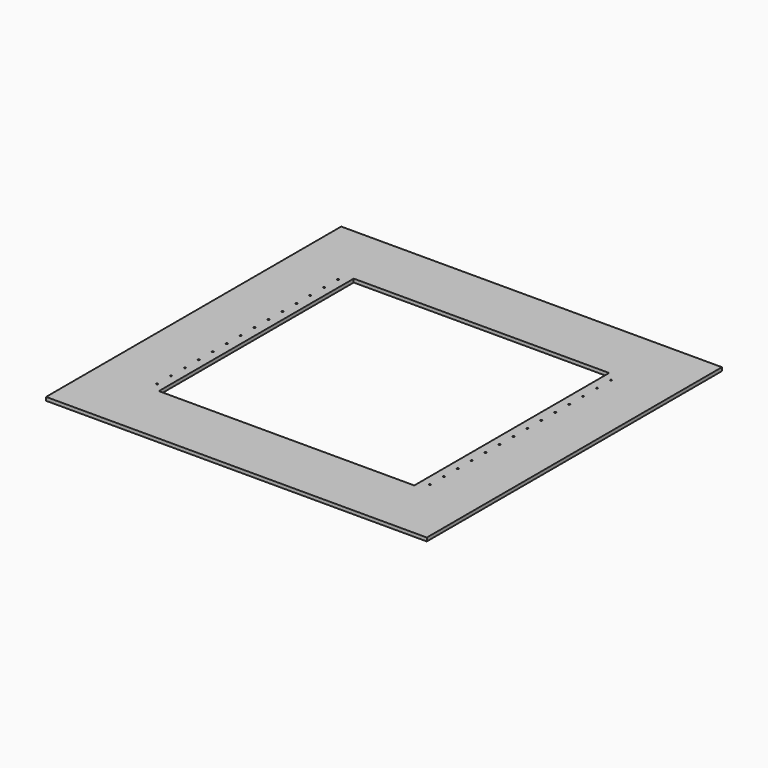
from build123d import *

# Parameters (mm, degrees)
F0_W     = 547
F0_H     = 530
F0_W_2   = 367
F0_H_2   = 350
F1_DEPTH = 5
F2_D     = 2.5


with BuildPart() as f1:
    # F0 (on Top) → F1 (new body)
    with BuildSketch(Plane.XY):
        Rectangle(F0_W, F0_H)
        Rectangle(F0_W_2, F0_H_2, mode=Mode.SUBTRACT)
    extrude(amount=F1_DEPTH)

    # F2 (through all)
    with Locations(Plane(origin=(0, 0, 0), x_dir=(1, 0, 0), z_dir=(0, 0, -1))):
        with Locations((-196, -112.5), (-196, -87.5), (-196, -62.5), (-196, -37.5), (-196, -12.5), (-196, 12.5), (-196, 37.5), (-196, 62.5), (-196, 87.5), (-196, 112.5), (-196, 137.5), (-196, 162.5), (196, 162.5), (196, 137.5), (196, 112.5), (196, 87.5), (196, 62.5), (196, 37.5), (196, 12.5), (196, -12.5), (196, -37.5), (196, -62.5), (196, -87.5), (196, -112.5), (-196, -137.5), (-196, -162.5), (196, -137.5), (196, -162.5)):
            Hole(F2_D / 2)


solid = f1.part
